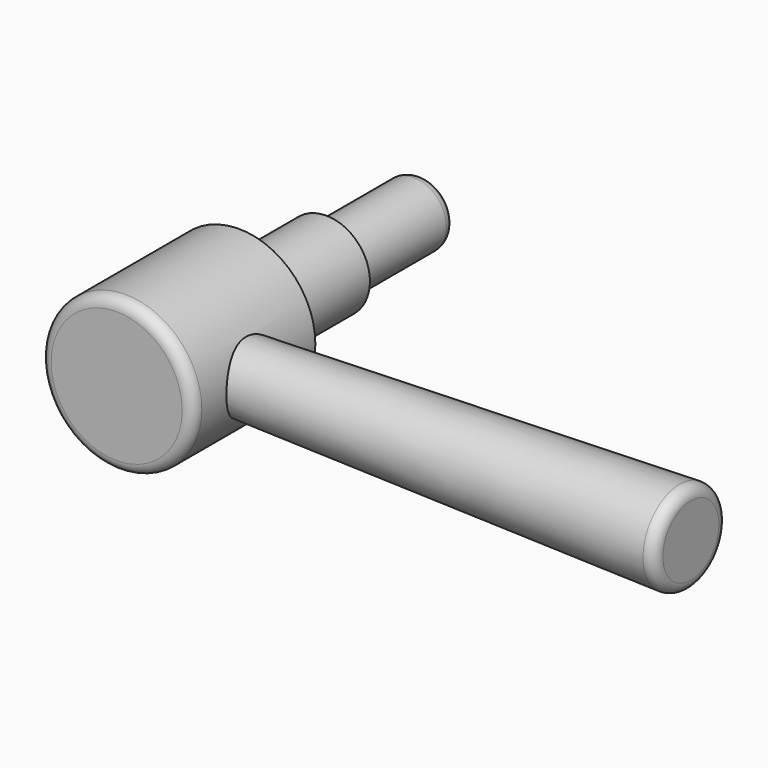
from build123d import *

# Parameters (mm, degrees)
F1_START      = 10
F0_R          = 7
F0_R_2        = 4
F1_DEPTH      = 14
F0_R_3        = 3
F2_DEPTH      = 24
F2_DEPTH_BACK = 11
F3_DEPTH      = 24
F4_R          = 3
F5_DEPTH      = 47
F5_TAPER      = -1.5
F6_R          = 1


with BuildPart() as f1:
    # F0 (on Front) → F1 (new body)
    with BuildSketch(Plane.XZ.offset(F1_START)):
        Circle(F0_R)
        Circle(F0_R_2, mode=Mode.SUBTRACT)
    extrude(amount=F1_DEPTH)



with BuildPart() as f2:
    # F0 (on Front) → F2 (new body, two sides)
    with BuildSketch(Plane.XZ) as f2_sk:
        Circle(F0_R_3)
    extrude(amount=F2_DEPTH)
    extrude(f2_sk.sketch, amount=-F2_DEPTH_BACK)


with BuildPart() as f3:
    # F0 (on Front) → F3 (new body)
    with BuildSketch(Plane.XZ):
        Circle(F0_R_2)
        Circle(F0_R_3, mode=Mode.SUBTRACT)
    extrude(amount=F3_DEPTH)


with BuildPart() as f1_1:
    add(f1.part)

    add(f2.part)  # F5 merges F2

    add(f3.part)  # F5 merges F3
    # F4 (on Right) → F5 (join)
    with BuildSketch(Plane.YZ):
        with Locations((-17, 0)):
            Circle(F4_R)
    extrude(amount=F5_DEPTH, taper=F5_TAPER)

    # F6
    f6_edges = [f1_1.edges().sort_by_distance(p)[0] for p in [
        (-7, -24, 0),
        (47, -21.230738, 0),
        (-3, 11, 0),
    ]]
    fillet(f6_edges, radius=F6_R)


solid = f1_1.part
